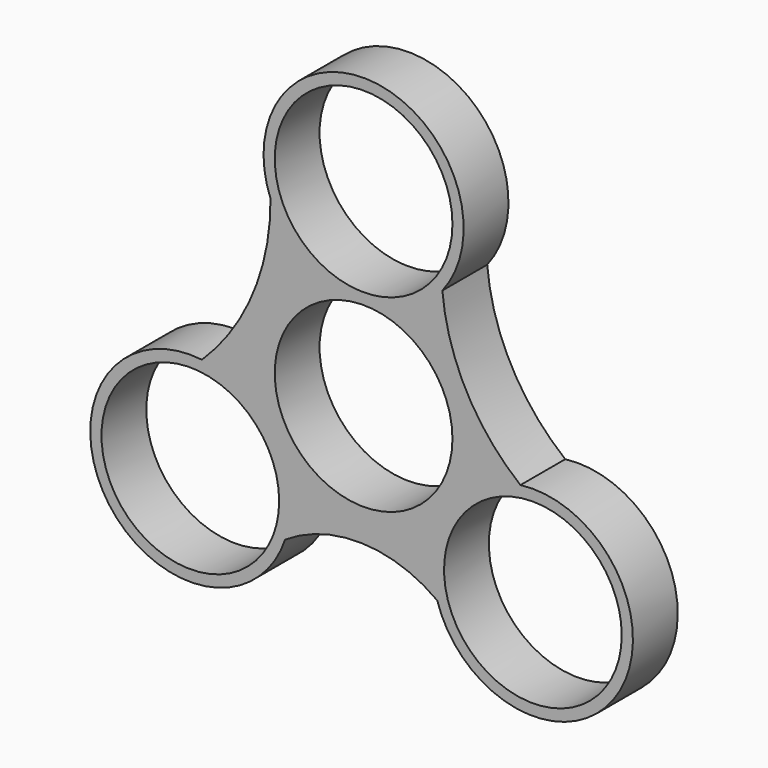
from build123d import *

# Parameters (mm, degrees)
F0_R     = 11.1
F1_DEPTH = 7


with BuildPart() as f1:
    # F0 (on Front) → F1 (new body)
    with BuildSketch(Plane.XZ):
        with BuildLine():
            ThreePointArc((-11.631835, 19.022837), (-13.817168, 7.892301), (-20.200031, -1.484455))
            ThreePointArc((-20.200031, -1.484455), (-32.208239, -20.59231), (-9.803244, -17.886141))
            ThreePointArc((-9.803244, -17.886141), (-0.219714, -15.161037), (9.201208, -18.403945))
            ThreePointArc((9.201208, -18.403945), (31.646477, -21.517381), (19.594948, -2.32769))
            ThreePointArc((19.594948, -2.32769), (12.851245, 5.783515), (9.841755, 15.893518))
            ThreePointArc((9.841755, 15.893518), (1.802569, 35.969347), (-11.631835, 19.022837))
        make_face()
        with Locations((-21.650635, -13.9)):
            Circle(F0_R, mode=Mode.SUBTRACT)
        with BuildLine():
            ThreePointArc((21.149307, -3.630672), (28.998192, -6.881787), (32.249307, -14.730672))
            ThreePointArc((32.249307, -14.730672), (13.300422, -22.579557), (21.149307, -3.630672))
        make_face(mode=Mode.SUBTRACT)
        Circle(F0_R, mode=Mode.SUBTRACT)
        with Locations((0, 23.6)):
            Circle(F0_R, mode=Mode.SUBTRACT)
    extrude(amount=F1_DEPTH)


solid = f1.part
